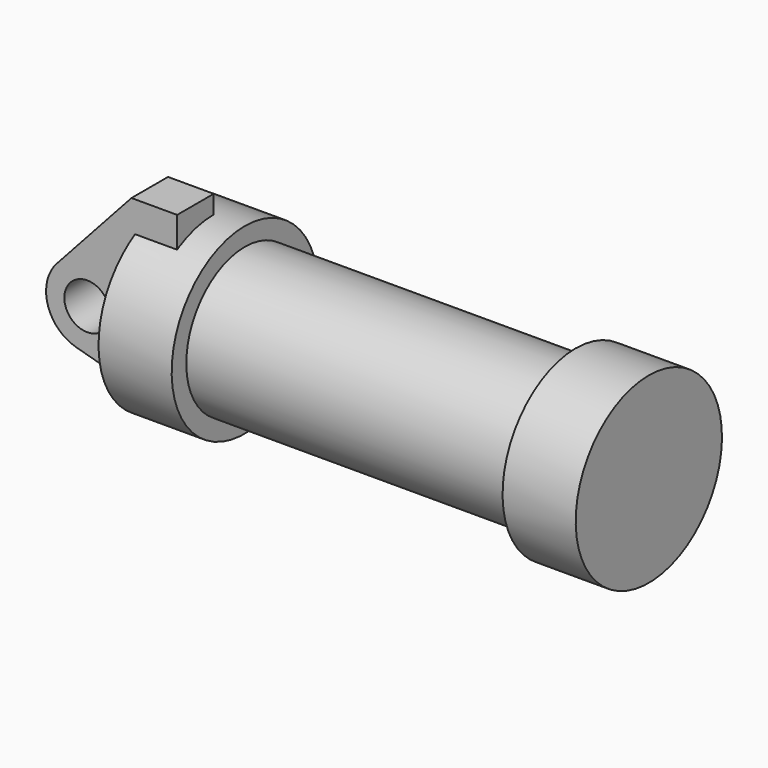
from build123d import *

# Parameters (mm, degrees)
F0_W     = 5.842
F0_H     = 12.7
F0_R     = 3.175
F2_DEPTH = 6.35


with BuildPart() as f1:
    # F0 (on Front) → F1 (revolve)
    with BuildSketch(Plane.XZ):
        Polygon((5.842, 12.7), (5.842, 0), (66.294, 0), (66.294, 12.7), (56.134, 12.7), (56.134, 10.16), (10.16, 10.16), (10.16, 12.7), align=None)
        with Locations((2.921, 6.35)):
            Rectangle(F0_W, F0_H)
    revolve(axis=Axis((33.147, 0, 0), (-1, 0, 0)))


with BuildPart() as f2:
    # F0 (on Front) → F2 (new body)
    with BuildSketch(Plane.XZ):
        with BuildLine():
            Line((-0.9398, 0), (0, 0))
            Line((0, 0), (0, 12.7))
            Line((0, 12.7), (5.842, 12.7))
            Line((5.842, 12.7), (5.842, 15.24))
            Line((5.842, 15.24), (-0.508, 15.24))
            Line((-0.508, 15.24), (-10.88063, 3.847543))
            ThreePointArc((-10.88063, 3.847543), (-4.591961, 5.329721), (-0.9398, 0))
        make_face()
        with Locations((2.921, 6.35)):
            Rectangle(F0_W, F0_H)
        with BuildLine():
            Line((5.842, 0), (0, 0))
            Line((0, 0), (-0.9398, 0))
            ThreePointArc((-0.9398, 0), (-3.195791, -4.549339), (-8.182663, -5.506983))
            Line((-8.182663, -5.506983), (5.842, -9.398))
            Line((5.842, -9.398), (5.842, 0))
        make_face()
        with BuildLine():
            ThreePointArc((-8.182663, -5.506983), (-3.195791, -4.549339), (-0.9398, 0))
            ThreePointArc((-0.9398, 0), (-4.591961, 5.329721), (-10.88063, 3.847543))
            ThreePointArc((-10.88063, 3.847543), (-12.145978, -1.583727), (-8.182663, -5.506983))
        make_face()
        with Locations((-6.6548, 0)):
            Circle(F0_R, mode=Mode.SUBTRACT)
    extrude(amount=F2_DEPTH)


solid = Compound([f1.part, f2.part])
